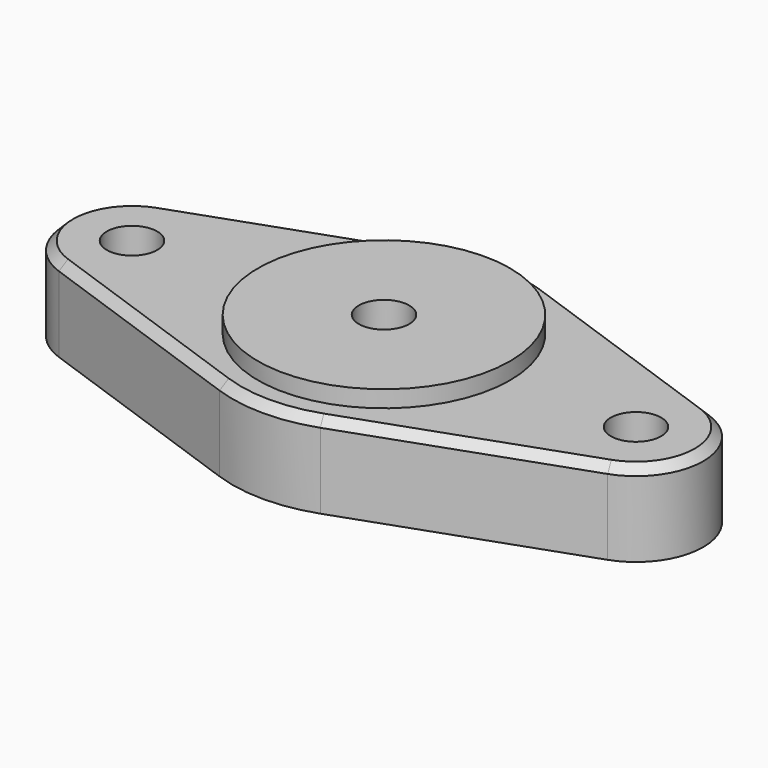
from build123d import *

# Parameters (mm, degrees)
F0_R     = 1.5
F1_DEPTH = 5
F2_R     = 1.5
F3_DEPTH = 5.001
F4_R     = 2
F5_DEPTH = 4
F6_R     = 7.5
F6_R_2   = 1.5
F7_DEPTH = 1
F8_SIZE  = 0.5


with BuildPart() as f1:
    # F0 (on Top) → F1 (new body)
    with BuildSketch(Plane.XY):
        with BuildLine():
            Line((-3, 8.485281), (-16.333333, 3.771236))
            ThreePointArc((-16.333333, 3.771236), (-19, 0), (-16.333333, -3.771236))
            Line((-16.333333, -3.771236), (-3, -8.485281))
            ThreePointArc((-3, -8.485281), (0, -9), (3, -8.485281))
            Line((3, -8.485281), (16.333333, -3.771236))
            ThreePointArc((16.333333, -3.771236), (19, 0), (16.333333, 3.771236))
            Line((16.333333, 3.771236), (3, 8.485281))
            ThreePointArc((3, 8.485281), (0, 9), (-3, 8.485281))
        make_face()
        with Locations((-15, 0)):
            Circle(F0_R, mode=Mode.SUBTRACT)
        with Locations((15, 0)):
            Circle(F0_R, mode=Mode.SUBTRACT)
    extrude(amount=F1_DEPTH)

    # F2 (on face) → F3 (cut, through all)
    with BuildSketch(Plane(origin=(0, 0, 0), x_dir=(1, 0, 0), z_dir=(0, 0, -1))):
        Circle(F2_R)
    extrude(amount=-F3_DEPTH, mode=Mode.SUBTRACT)

    # F4 (on face) → F5 (cut)
    with BuildSketch(Plane(origin=(0, 0, 0), x_dir=(1, 0, 0), z_dir=(0, 0, -1))):
        Circle(F4_R)
    extrude(amount=-F5_DEPTH, mode=Mode.SUBTRACT)

    # F6 (on face) → F7 (join)
    with BuildSketch(Plane.XY.offset(5)):
        Circle(F6_R)
        Circle(F6_R_2, mode=Mode.SUBTRACT)
    extrude(amount=F7_DEPTH)

    # F8
    f8_edges = [f1.edges().sort_by_distance(p)[0] for p in [
        (9.666667, 6.128259, 5),
    ]]
    chamfer(f8_edges, length=F8_SIZE)


solid = f1.part
